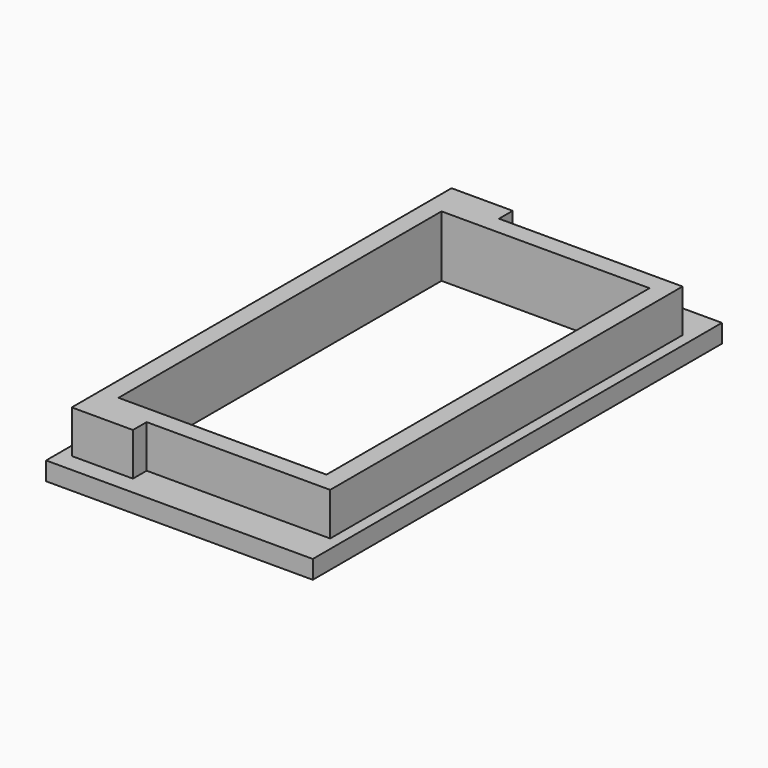
from build123d import *

# Parameters (mm, degrees)
BOX064_W     = 5
BOX064_H     = 2
BOX064_DEPTH = 5
BOX067_W     = 5
BOX067_H     = 2
BOX067_DEPTH = 5
BOX066_W     = 17
BOX066_H     = 33
BOX066_DEPTH = 5
BOX065_W     = 20
BOX065_H     = 36
BOX065_DEPTH = 5
BOX068_W     = 21.8
BOX068_H     = 41.8
BOX068_DEPTH = 1.5


with BuildPart() as cube062:
    # Box064 → Box064 (new body)
    with BuildSketch(Plane(origin=(-10, 17.4, 0), x_dir=(1, 0, 0), z_dir=(0, 0, 1))):
        with Locations((2.5, 1)):
            Rectangle(BOX064_W, BOX064_H)
    extrude(amount=BOX064_DEPTH)


with BuildPart() as fusion018:
    # Box067 → Box067 (new body)
    with BuildSketch(Plane(origin=(-10, -19.4, 0), x_dir=(1, 0, 0), z_dir=(0, 0, 1))):
        with Locations((2.5, 1)):
            Rectangle(BOX067_W, BOX067_H)
    extrude(amount=BOX067_DEPTH)

    # Fusion018: union Cube062
    add(cube062.part)


with BuildPart() as cut001:
    # Box066 → Box066 (new body)
    with BuildSketch(Plane(origin=(-8.5, -16.5, 0), x_dir=(1, 0, 0), z_dir=(0, 0, 1))):
        with Locations((8.5, 16.5)):
            Rectangle(BOX066_W, BOX066_H)
    extrude(amount=BOX066_DEPTH)


with BuildPart() as cube063:
    # Box065 → Box065 (new body)
    with BuildSketch(Plane(origin=(-10, -18, 0), x_dir=(1, 0, 0), z_dir=(0, 0, 1))):
        with Locations((10, 18)):
            Rectangle(BOX065_W, BOX065_H)
    extrude(amount=BOX065_DEPTH)


with BuildPart() as basesensorlowermount:
    # Box068 → Box068 (new body)
    with BuildSketch(Plane(origin=(-10.9, -20.9, 0), x_dir=(1, 0, 0), z_dir=(0, 0, 1))):
        with Locations((10.9, 20.9)):
            Rectangle(BOX068_W, BOX068_H)
    extrude(amount=BOX068_DEPTH)

    # Fusion016: union Cube063
    add(cube063.part)

    # Cut059: cut cut001
    add(cut001.part, mode=Mode.SUBTRACT)

    # Fusion017: union Fusion018
    add(fusion018.part)


with BuildPart() as basesensorlowermount_1:
    # Fusion017 placement: moved
    add(basesensorlowermount.part.moved(Location((0, 0, 141.7))))


solid = basesensorlowermount_1.part
